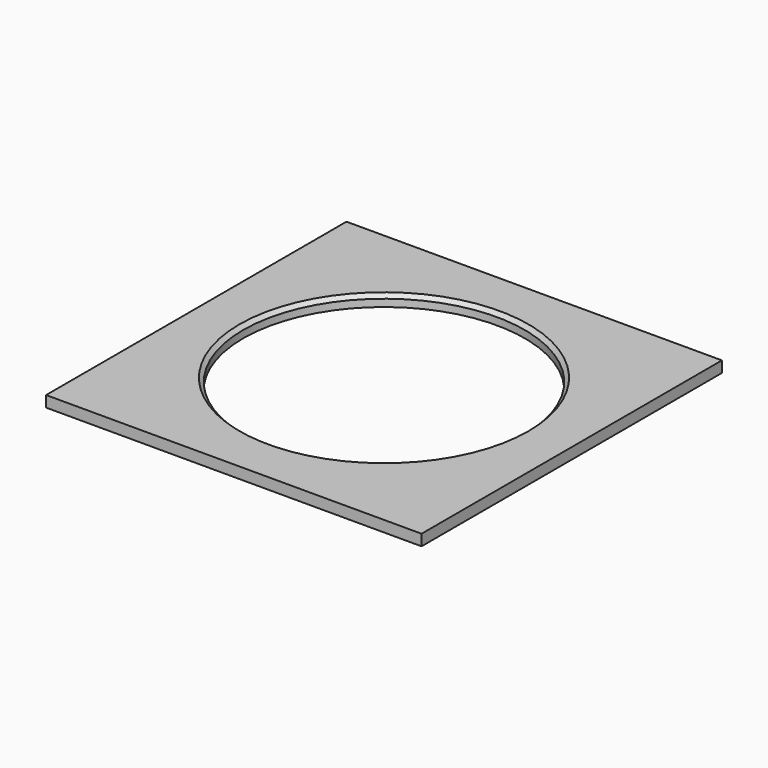
from build123d import *

# Parameters (mm, degrees)
F0_W     = 508
F0_H     = 508
F0_R     = 190.5
F1_DEPTH = 15
F2_SIZE  = 5.08


with BuildPart() as f1:
    # F0 (on Top) → F1 (new body)
    with BuildSketch(Plane.XY):
        Rectangle(F0_W, F0_H)
        Circle(F0_R, mode=Mode.SUBTRACT)
    extrude(amount=F1_DEPTH)

    # F2
    f2_edges = [f1.edges().sort_by_distance(p)[0] for p in [
        (-190.5, 0, 15),
    ]]
    chamfer(f2_edges, length=F2_SIZE)


solid = f1.part
